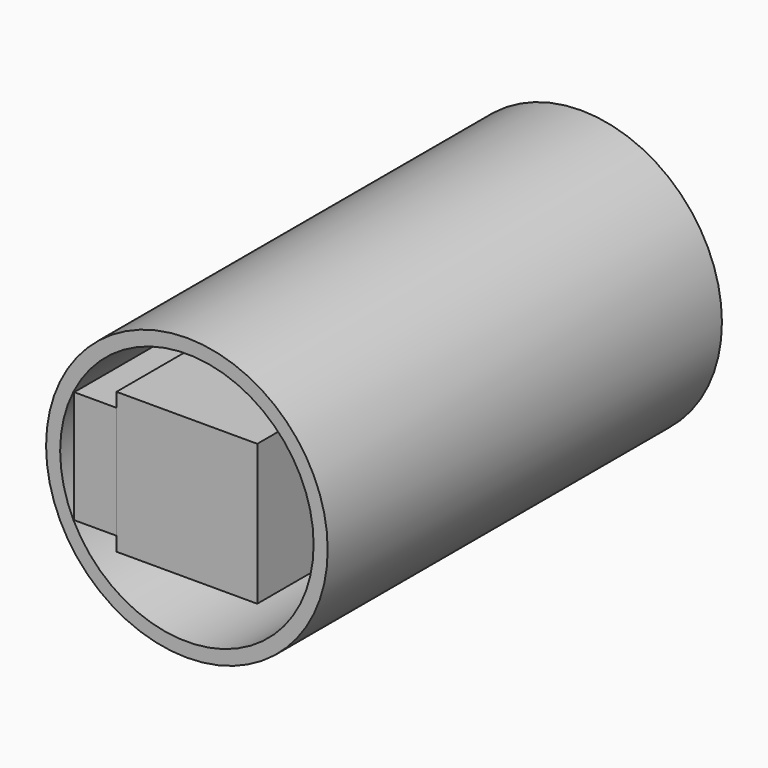
from build123d import *

# Parameters (mm, degrees)
F1_DEPTH = 35
F0_R     = 10
F0_R_2   = 9
F2_DEPTH = 35
F0_W     = 3
F0_H     = 8
F3_DEPTH = 30


with BuildPart() as f1:
    # F0 (on Front) → F1 (new body)
    with BuildSketch(Plane.XZ):
        Polygon((-5, -5), (5, -5), (5, 5), (-5, 5), (-5, 4), (-5, -4), align=None)
    extrude(amount=-F1_DEPTH)


with BuildPart() as f2:
    # F0 (on Front) → F2 (new body)
    with BuildSketch(Plane.XZ):
        Circle(F0_R)
        Circle(F0_R_2, mode=Mode.SUBTRACT)
    extrude(amount=-F2_DEPTH)


with BuildPart() as f3:
    # F0 (on Front) → F3 (new body)
    with BuildSketch(Plane.XZ):
        with Locations((-6.5, 0)):
            Rectangle(F0_W, F0_H)
    extrude(amount=-F3_DEPTH)


solid = Compound([f1.part, f2.part, f3.part])
